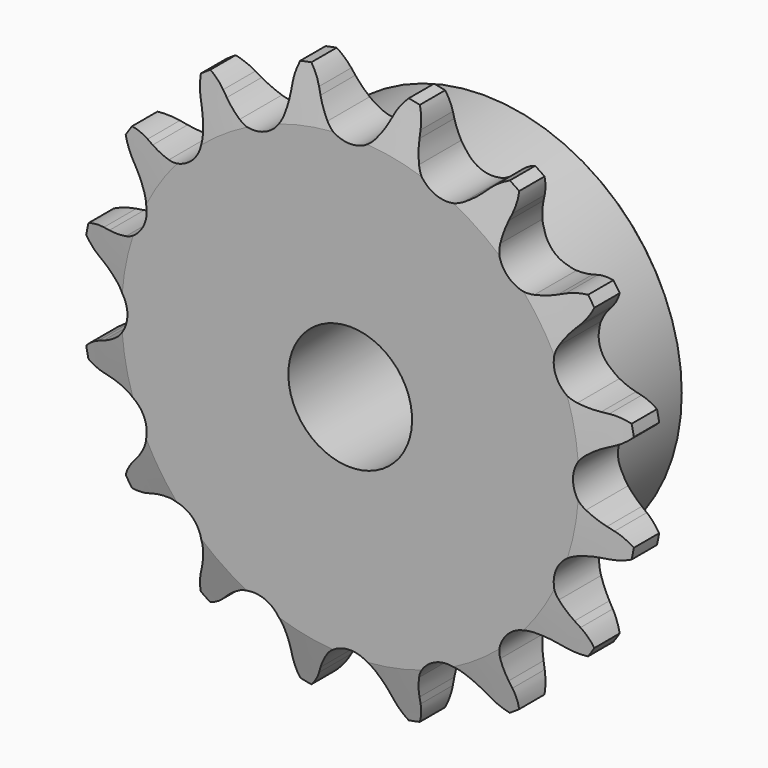
from build123d import *

# Parameters (mm, degrees)
F0_W       = 15.0114
F0_H       = 17.4625
F0_W_2     = 7.2136
F0_H_2     = 10.287
F2_R       = 1.5875
F3_SIZE    = 0.79375
F4_SIZE2   = 1.5748
F4_SIZE    = 6.35
F4_2_SIZE2 = 1.5748
F4_2_SIZE  = 6.35
F6_DEPTH   = 22.226


with BuildPart() as f1:
    # F0 (on Right) → F1 (revolve)
    with BuildSketch(Plane.YZ):
        with Locations((14.7193, 16.66875)):
            Rectangle(F0_W, F0_H)
        with Locations((3.6068, 16.66875)):
            Rectangle(F0_W_2, F0_H)
        with Locations((3.6068, 30.5435)):
            Rectangle(F0_W_2, F0_H_2)
    revolve(axis=Axis((0, 11.1125, 0), (0, 1, 0)))

    # F2
    f2_edges = [f1.edges().sort_by_distance(p)[0] for p in [
        (0, 7.2136, -25.4),
    ]]
    fillet(f2_edges, radius=F2_R)

    # F3
    f3_edges = [f1.edges().sort_by_distance(p)[0] for p in [
        (0, 22.225, -25.4),
    ]]
    chamfer(f3_edges, length=F3_SIZE)

    # F4
    f4_edges = [f1.edges().sort_by_distance(p)[0] for p in [
        (0, 7.2136, -26.9875),
        (0, 7.2136, -35.687),
    ]]
    f4_side = f1.faces().sort_by_distance((0, 7.2136, -27.996881))[0]
    chamfer(f4_edges, length=F4_SIZE, length2=F4_SIZE2, reference=f4_side)

    # F4#2
    f4_2_edges = [f1.edges().sort_by_distance(p)[0] for p in [
        (0, 0, -35.687),
    ]]
    f4_2_side = f1.faces().sort_by_distance((0, 0, -34.677619))[0]
    chamfer(f4_2_edges, length=F4_2_SIZE, length2=F4_2_SIZE2, reference=f4_2_side)

    # F5 (on face) → F6 (intersect, through all)
    with BuildSketch(Plane.XZ):
        with BuildLine():
            ThreePointArc((-3.0902142758, 30.0699408338), (-3.8441959519, 31.1417538349), (-4.4568878106, 32.3001493474))
            Line((-4.4568878106, 32.3001493474), (-4.8164154778, 33.0982711732))
            ThreePointArc((-4.8164154778, 33.0982711732), (-5.7824590494, 34.6345413147), (-7.1308367855, 35.8491373836))
            ThreePointArc((-7.1308367855, 35.8491373836), (-7.9117695854, 34.2109951151), (-8.2163723379, 32.4219777052))
            Line((-8.2163723379, 32.4219777052), (-8.2431045912, 31.5470240041))
            ThreePointArc((-8.2431045912, 31.5470240041), (-8.3658592885, 30.2423390761), (-8.6522824488, 28.963576686))
            ThreePointArc((-8.6522824488, 28.963576686), (-10.9400391594, 26.4115909116), (-14.3622538898, 26.5984290744))
            ThreePointArc((-14.3622538898, 26.5984290744), (-15.4690072063, 27.300118873), (-16.4783594451, 28.135869754))
            Line((-16.4783594451, 28.135869754), (-17.115947698, 28.7356528917))
            ThreePointArc((-17.115947698, 28.7356528917), (-18.596360712, 29.7852925621), (-20.3069050971, 30.3914311902))
            ThreePointArc((-20.3069050971, 30.3914311902), (-20.4015030212, 28.5791350327), (-19.9982919468, 26.8097320375))
            Line((-19.9982919468, 26.8097320375), (-19.688159043, 25.9911502307))
            ThreePointArc((-19.688159043, 25.9911502307), (-19.3022882889, 24.7388023405), (-19.0775476037, 23.4477705432))
            ThreePointArc((-19.0775476037, 23.4477705432), (-20.2145565285, 20.2145565285), (-23.4477705432, 19.0775476037))
            ThreePointArc((-23.4477705432, 19.0775476037), (-24.7388023405, 19.3022882889), (-25.9911502307, 19.688159043))
            Line((-25.9911502307, 19.688159043), (-26.8097320375, 19.9982919468))
            ThreePointArc((-26.8097320375, 19.9982919468), (-28.5791350327, 20.4015030212), (-30.3914311902, 20.3069050971))
            ThreePointArc((-30.3914311902, 20.3069050971), (-29.7852925621, 18.596360712), (-28.7356528917, 17.115947698))
            Line((-28.7356528917, 17.115947698), (-28.135869754, 16.4783594451))
            ThreePointArc((-28.135869754, 16.4783594451), (-27.300118873, 15.4690072063), (-26.5984290744, 14.3622538898))
            ThreePointArc((-26.5984290744, 14.3622538898), (-26.4115909116, 10.9400391594), (-28.963576686, 8.6522824488))
            ThreePointArc((-28.963576686, 8.6522824488), (-30.2423390761, 8.3658592885), (-31.5470240041, 8.2431045912))
            Line((-31.5470240041, 8.2431045912), (-32.4219777052, 8.2163723379))
            ThreePointArc((-32.4219777052, 8.2163723379), (-34.2109951151, 7.9117695854), (-35.8491373836, 7.1308367855))
            ThreePointArc((-35.8491373836, 7.1308367855), (-34.6345413147, 5.7824590494), (-33.0982711732, 4.8164154778))
            Line((-33.0982711732, 4.8164154778), (-32.3001493474, 4.4568878106))
            ThreePointArc((-32.3001493474, 4.4568878106), (-31.1417538349, 3.8441959519), (-30.0699408338, 3.0902142758))
            ThreePointArc((-30.0699408338, 3.0902142758), (-28.5877, 0), (-30.0699408338, -3.0902142758))
            ThreePointArc((-30.0699408338, -3.0902142758), (-31.1417538349, -3.8441959519), (-32.3001493474, -4.4568878106))
            Line((-32.3001493474, -4.4568878106), (-33.0982711732, -4.8164154778))
            ThreePointArc((-33.0982711732, -4.8164154778), (-34.6345413147, -5.7824590494), (-35.8491373836, -7.1308367855))
            ThreePointArc((-35.8491373836, -7.1308367855), (-34.2109951151, -7.9117695854), (-32.4219777052, -8.2163723379))
            Line((-32.4219777052, -8.2163723379), (-31.5470240041, -8.2431045912))
            ThreePointArc((-31.5470240041, -8.2431045912), (-30.2423390761, -8.3658592885), (-28.963576686, -8.6522824488))
            ThreePointArc((-28.963576686, -8.6522824488), (-26.4115909116, -10.9400391594), (-26.5984290744, -14.3622538898))
            ThreePointArc((-26.5984290744, -14.3622538898), (-27.300118873, -15.4690072063), (-28.135869754, -16.4783594451))
            Line((-28.135869754, -16.4783594451), (-28.7356528917, -17.115947698))
            ThreePointArc((-28.7356528917, -17.115947698), (-29.7852925621, -18.596360712), (-30.3914311902, -20.3069050971))
            ThreePointArc((-30.3914311902, -20.3069050971), (-28.5791350327, -20.4015030212), (-26.8097320375, -19.9982919468))
            Line((-26.8097320375, -19.9982919468), (-25.9911502307, -19.688159043))
            ThreePointArc((-25.9911502307, -19.688159043), (-24.7388023405, -19.3022882889), (-23.4477705432, -19.0775476037))
            ThreePointArc((-23.4477705432, -19.0775476037), (-20.2145565285, -20.2145565285), (-19.0775476037, -23.4477705432))
            ThreePointArc((-19.0775476037, -23.4477705432), (-19.3022882889, -24.7388023405), (-19.688159043, -25.9911502307))
            Line((-19.688159043, -25.9911502307), (-19.9982919468, -26.8097320375))
            ThreePointArc((-19.9982919468, -26.8097320375), (-20.4015030212, -28.5791350327), (-20.3069050971, -30.3914311902))
            ThreePointArc((-20.3069050971, -30.3914311902), (-18.596360712, -29.7852925621), (-17.115947698, -28.7356528917))
            Line((-17.115947698, -28.7356528917), (-16.4783594451, -28.135869754))
            ThreePointArc((-16.4783594451, -28.135869754), (-15.4690072063, -27.300118873), (-14.3622538898, -26.5984290744))
            ThreePointArc((-14.3622538898, -26.5984290744), (-10.9400391594, -26.4115909116), (-8.6522824488, -28.963576686))
            ThreePointArc((-8.6522824488, -28.963576686), (-8.3658592885, -30.2423390761), (-8.2431045912, -31.5470240041))
            Line((-8.2431045912, -31.5470240041), (-8.2163723379, -32.4219777052))
            ThreePointArc((-8.2163723379, -32.4219777052), (-7.9117695854, -34.2109951151), (-7.1308367855, -35.8491373836))
            ThreePointArc((-7.1308367855, -35.8491373836), (-5.7824590494, -34.6345413147), (-4.8164154778, -33.0982711732))
            Line((-4.8164154778, -33.0982711732), (-4.4568878106, -32.3001493474))
            ThreePointArc((-4.4568878106, -32.3001493474), (-3.8441959519, -31.1417538349), (-3.0902142758, -30.0699408338))
            ThreePointArc((-3.0902142758, -30.0699408338), (0, -28.5877), (3.0902142758, -30.0699408338))
            ThreePointArc((3.0902142758, -30.0699408338), (3.8441959519, -31.1417538349), (4.4568878106, -32.3001493474))
            Line((4.4568878106, -32.3001493474), (4.8164154778, -33.0982711732))
            ThreePointArc((4.8164154778, -33.0982711732), (5.7824590494, -34.6345413147), (7.1308367855, -35.8491373836))
            ThreePointArc((7.1308367855, -35.8491373836), (7.9117695854, -34.2109951151), (8.2163723379, -32.4219777052))
            Line((8.2163723379, -32.4219777052), (8.2431045912, -31.5470240041))
            ThreePointArc((8.2431045912, -31.5470240041), (8.3658592885, -30.2423390761), (8.6522824488, -28.963576686))
            ThreePointArc((8.6522824488, -28.963576686), (10.9400391594, -26.4115909116), (14.3622538898, -26.5984290744))
            ThreePointArc((14.3622538898, -26.5984290744), (15.4690072063, -27.300118873), (16.4783594451, -28.135869754))
            Line((16.4783594451, -28.135869754), (17.115947698, -28.7356528917))
            ThreePointArc((17.115947698, -28.7356528917), (18.596360712, -29.7852925621), (20.3069050971, -30.3914311902))
            ThreePointArc((20.3069050971, -30.3914311902), (20.4015030212, -28.5791350327), (19.9982919468, -26.8097320375))
            Line((19.9982919468, -26.8097320375), (19.688159043, -25.9911502307))
            ThreePointArc((19.688159043, -25.9911502307), (19.3022882889, -24.7388023405), (19.0775476037, -23.4477705432))
            ThreePointArc((19.0775476037, -23.4477705432), (20.2145565285, -20.2145565285), (23.4477705432, -19.0775476037))
            ThreePointArc((23.4477705432, -19.0775476037), (24.7388023405, -19.3022882889), (25.9911502307, -19.688159043))
            Line((25.9911502307, -19.688159043), (26.8097320375, -19.9982919468))
            ThreePointArc((26.8097320375, -19.9982919468), (28.5791350327, -20.4015030212), (30.3914311902, -20.3069050971))
            ThreePointArc((30.3914311902, -20.3069050971), (29.7852925621, -18.596360712), (28.7356528917, -17.115947698))
            Line((28.7356528917, -17.115947698), (28.135869754, -16.4783594451))
            ThreePointArc((28.135869754, -16.4783594451), (27.300118873, -15.4690072063), (26.5984290744, -14.3622538898))
            ThreePointArc((26.5984290744, -14.3622538898), (26.4115909116, -10.9400391594), (28.963576686, -8.6522824488))
            ThreePointArc((28.963576686, -8.6522824488), (30.2423390761, -8.3658592885), (31.5470240041, -8.2431045912))
            Line((31.5470240041, -8.2431045912), (32.4219777052, -8.2163723379))
            ThreePointArc((32.4219777052, -8.2163723379), (34.2109951151, -7.9117695854), (35.8491373836, -7.1308367855))
            ThreePointArc((35.8491373836, -7.1308367855), (34.6345413147, -5.7824590494), (33.0982711732, -4.8164154778))
            Line((33.0982711732, -4.8164154778), (32.3001493474, -4.4568878106))
            ThreePointArc((32.3001493474, -4.4568878106), (31.1417538349, -3.8441959519), (30.0699408338, -3.0902142758))
            ThreePointArc((30.0699408338, -3.0902142758), (28.5877, 0), (30.0699408338, 3.0902142758))
            ThreePointArc((30.0699408338, 3.0902142758), (31.1417538349, 3.8441959519), (32.3001493474, 4.4568878106))
            Line((32.3001493474, 4.4568878106), (33.0982711732, 4.8164154778))
            ThreePointArc((33.0982711732, 4.8164154778), (34.6345413147, 5.7824590494), (35.8491373836, 7.1308367855))
            ThreePointArc((35.8491373836, 7.1308367855), (34.2109951151, 7.9117695854), (32.4219777052, 8.2163723379))
            Line((32.4219777052, 8.2163723379), (31.5470240041, 8.2431045912))
            ThreePointArc((31.5470240041, 8.2431045912), (30.2423390761, 8.3658592885), (28.963576686, 8.6522824488))
            ThreePointArc((28.963576686, 8.6522824488), (26.4115909116, 10.9400391594), (26.5984290744, 14.3622538898))
            ThreePointArc((26.5984290744, 14.3622538898), (27.300118873, 15.4690072063), (28.135869754, 16.4783594451))
            Line((28.135869754, 16.4783594451), (28.7356528917, 17.115947698))
            ThreePointArc((28.7356528917, 17.115947698), (29.7852925621, 18.596360712), (30.3914311902, 20.3069050971))
            ThreePointArc((30.3914311902, 20.3069050971), (28.5791350327, 20.4015030212), (26.8097320375, 19.9982919468))
            Line((26.8097320375, 19.9982919468), (25.9911502307, 19.688159043))
            ThreePointArc((25.9911502307, 19.688159043), (24.7388023405, 19.3022882889), (23.4477705432, 19.0775476037))
            ThreePointArc((23.4477705432, 19.0775476037), (20.2145565285, 20.2145565285), (19.0775476037, 23.4477705432))
            ThreePointArc((19.0775476037, 23.4477705432), (19.3022882889, 24.7388023405), (19.688159043, 25.9911502307))
            Line((19.688159043, 25.9911502307), (19.9982919468, 26.8097320375))
            ThreePointArc((19.9982919468, 26.8097320375), (20.4015030212, 28.5791350327), (20.3069050971, 30.3914311902))
            ThreePointArc((20.3069050971, 30.3914311902), (18.596360712, 29.7852925621), (17.115947698, 28.7356528917))
            Line((17.115947698, 28.7356528917), (16.4783594451, 28.135869754))
            ThreePointArc((16.4783594451, 28.135869754), (15.4690072063, 27.300118873), (14.3622538898, 26.5984290744))
            ThreePointArc((14.3622538898, 26.5984290744), (10.9400391594, 26.4115909116), (8.6522824488, 28.963576686))
            ThreePointArc((8.6522824488, 28.963576686), (8.3658592885, 30.2423390761), (8.2431045912, 31.5470240041))
            Line((8.2431045912, 31.5470240041), (8.2163723379, 32.4219777052))
            ThreePointArc((8.2163723379, 32.4219777052), (7.9117695854, 34.2109951151), (7.1308367855, 35.8491373836))
            ThreePointArc((7.1308367855, 35.8491373836), (5.7824590494, 34.6345413147), (4.8164154778, 33.0982711732))
            Line((4.8164154778, 33.0982711732), (4.4568878106, 32.3001493474))
            ThreePointArc((4.4568878106, 32.3001493474), (3.8441959519, 31.1417538349), (3.0902142758, 30.0699408338))
            ThreePointArc((3.0902142758, 30.0699408338), (0, 28.5877), (-3.0902142758, 30.0699408338))
        make_face()
    extrude(amount=-F6_DEPTH, mode=Mode.INTERSECT)


solid = f1.part
